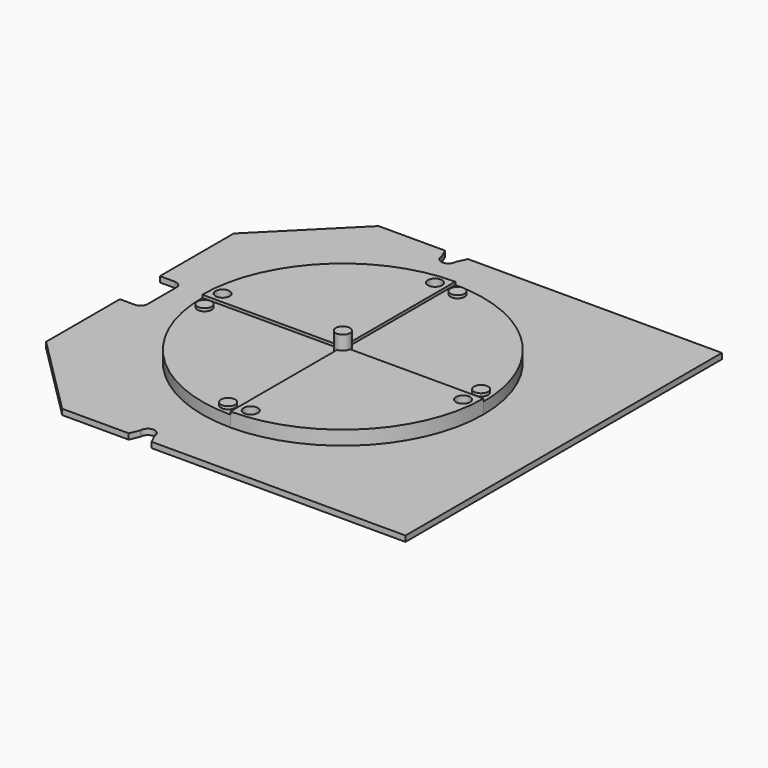
from build123d import *

# Parameters (mm, degrees)
F0_W     = 150
F0_H     = 140
F1_DEPTH = 2
F2_R     = 2.5
F3_DEPTH = 5
F4_R     = 2.5
F5_DEPTH = 5
F6_DEPTH = 4
F7_DEPTH = 10


with BuildPart() as f1:
    # F0 (on Top) → F1 (new body)
    with BuildSketch(Plane.XY):
        Rectangle(F0_W, F0_H)
    extrude(amount=F1_DEPTH)

    # F2 (on face) → F3 (cut)
    with BuildSketch(Plane.XY.offset(2)):
        Polygon((-75, 70), (-75, 41.5), (-46.5, 70), align=None)
        with Locations((-64, 57.6)):
            Circle(F2_R, mode=Mode.SUBTRACT)
        Polygon((-46.5, -70), (-75, -41.5), (-75, -70), align=None)
        with Locations((-64, -57.6)):
            Circle(F2_R, mode=Mode.SUBTRACT)
        with BuildLine():
            Line((-67.1845650673, -6.35), (-67.1845650673, 6.35))
            ThreePointArc((-67.1845650673, 6.35), (-67.9167981143, 8.117766953), (-69.6845650673, 8.85))
            Line((-69.6845650673, 8.85), (-75, 8.85))
            Line((-75, 8.85), (-75, -8.85))
            Line((-75, -8.85), (-69.6845650673, -8.85))
            ThreePointArc((-69.6845650673, -8.85), (-67.9167981143, -8.117766953), (-67.1845650673, -6.35))
        make_face()
        with BuildLine():
            Line((-21.499911428, -66.5210440509), (-22.940942165, -70))
            Line((-22.940942165, -70), (-14.8778247705, -70))
            Line((-14.8778247705, -70), (-16.500088572, -66.5210440509))
            ThreePointArc((-16.500088572, -66.5210440509), (-19, -64), (-21.499911428, -66.5210440509))
        make_face()
        with BuildLine():
            Line((-14.8778247705, 70), (-22.940942165, 70))
            Line((-22.940942165, 70), (-21.499911428, 66.5210440509))
            ThreePointArc((-21.499911428, 66.5210440509), (-19, 64), (-16.500088572, 66.5210440509))
            Line((-16.500088572, 66.5210440509), (-14.8778247705, 70))
        make_face()
        with Locations((-64, 57.6)):
            Circle(F2_R)
        with Locations((-64, -57.6)):
            Circle(F2_R)
    extrude(amount=-F3_DEPTH, mode=Mode.SUBTRACT)

    # F4 (on face) → F5 (join)
    with BuildSketch(Plane.XY.offset(2)):
        with BuildLine():
            Line((-3.16328, 2.5), (-3.16328, 49.75))
            ThreePointArc((-3.16328, 49.75), (-38.341842364, 35.178562364), (-52.91328, 0))
            Line((-52.91328, 0), (-5.66328, 0))
            ThreePointArc((-5.66328, 0), (-4.931046953, 1.767766953), (-3.16328, 2.5))
        make_face()
        with Locations((-48.91328, 4)):
            Circle(F4_R, mode=Mode.SUBTRACT)
        with Locations((-7.16328, 45.75)):
            Circle(F4_R, mode=Mode.SUBTRACT)
        with BuildLine():
            ThreePointArc((-3.16328, -49.75), (32.015282364, -35.178562364), (46.58672, 0))
            Line((46.58672, 0), (-0.66328, 0))
            ThreePointArc((-0.66328, 0), (-1.395513047, -1.767766953), (-3.16328, -2.5))
            Line((-3.16328, -2.5), (-3.16328, -49.75))
        make_face()
        with Locations((0.83672, -45.75)):
            Circle(F4_R, mode=Mode.SUBTRACT)
        with Locations((42.58672, -4)):
            Circle(F4_R, mode=Mode.SUBTRACT)
        with Locations((0.83672, 45.75)):
            Circle(F4_R)
        with Locations((42.58672, 4)):
            Circle(F4_R)
        with Locations((-7.16328, -45.75)):
            Circle(F4_R)
        with Locations((-48.91328, -4)):
            Circle(F4_R)
        with BuildLine():
            ThreePointArc((-5.66328, 0), (-4.931046953, -1.767766953), (-3.16328, -2.5))
            Line((-3.16328, -2.5), (-3.16328, 0))
            Line((-3.16328, 0), (-5.66328, 0))
        make_face()
        with BuildLine():
            Line((-3.16328, 0), (-0.66328, 0))
            ThreePointArc((-0.66328, 0), (-1.395513047, 1.767766953), (-3.16328, 2.5))
            Line((-3.16328, 2.5), (-3.16328, 0))
        make_face()
        with BuildLine():
            ThreePointArc((-3.16328, -2.5), (-1.395513047, -1.767766953), (-0.66328, 0))
            Line((-0.66328, 0), (-3.16328, 0))
            Line((-3.16328, 0), (-3.16328, -2.5))
        make_face()
        with BuildLine():
            Line((-3.16328, 0), (-3.16328, 2.5))
            ThreePointArc((-3.16328, 2.5), (-4.931046953, 1.767766953), (-5.66328, 0))
            Line((-5.66328, 0), (-3.16328, 0))
        make_face()
    extrude(amount=F5_DEPTH)

    # F4 (on face) → F6 (join)
    with BuildSketch(Plane.XY.offset(2)):
        with BuildLine():
            ThreePointArc((-52.91328, 0), (-38.341842364, -35.178562364), (-3.16328, -49.75))
            Line((-3.16328, -49.75), (-3.16328, -2.5))
            ThreePointArc((-3.16328, -2.5), (-4.931046953, -1.767766953), (-5.66328, 0))
            Line((-5.66328, 0), (-52.91328, 0))
        make_face()
        with Locations((-7.16328, -45.75)):
            Circle(F4_R, mode=Mode.SUBTRACT)
        with Locations((-48.91328, -4)):
            Circle(F4_R, mode=Mode.SUBTRACT)
        with BuildLine():
            Line((-0.66328, 0), (46.58672, 0))
            ThreePointArc((46.58672, 0), (32.015282364, 35.178562364), (-3.16328, 49.75))
            Line((-3.16328, 49.75), (-3.16328, 2.5))
            ThreePointArc((-3.16328, 2.5), (-1.395513047, 1.767766953), (-0.66328, 0))
        make_face()
        with Locations((42.58672, 4)):
            Circle(F4_R, mode=Mode.SUBTRACT)
        with Locations((0.83672, 45.75)):
            Circle(F4_R, mode=Mode.SUBTRACT)
    extrude(amount=F6_DEPTH)

    # F4 (on face) → F7 (join)
    with BuildSketch(Plane.XY.offset(2)):
        with BuildLine():
            ThreePointArc((-3.16328, -2.5), (-1.395513047, -1.767766953), (-0.66328, 0))
            Line((-0.66328, 0), (-3.16328, 0))
            Line((-3.16328, 0), (-3.16328, -2.5))
        make_face()
        with BuildLine():
            Line((-3.16328, 0), (-0.66328, 0))
            ThreePointArc((-0.66328, 0), (-1.395513047, 1.767766953), (-3.16328, 2.5))
            Line((-3.16328, 2.5), (-3.16328, 0))
        make_face()
        with BuildLine():
            Line((-3.16328, 0), (-3.16328, 2.5))
            ThreePointArc((-3.16328, 2.5), (-4.931046953, 1.767766953), (-5.66328, 0))
            Line((-5.66328, 0), (-3.16328, 0))
        make_face()
        with BuildLine():
            ThreePointArc((-5.66328, 0), (-4.931046953, -1.767766953), (-3.16328, -2.5))
            Line((-3.16328, -2.5), (-3.16328, 0))
            Line((-3.16328, 0), (-5.66328, 0))
        make_face()
    extrude(amount=F7_DEPTH)


solid = f1.part
